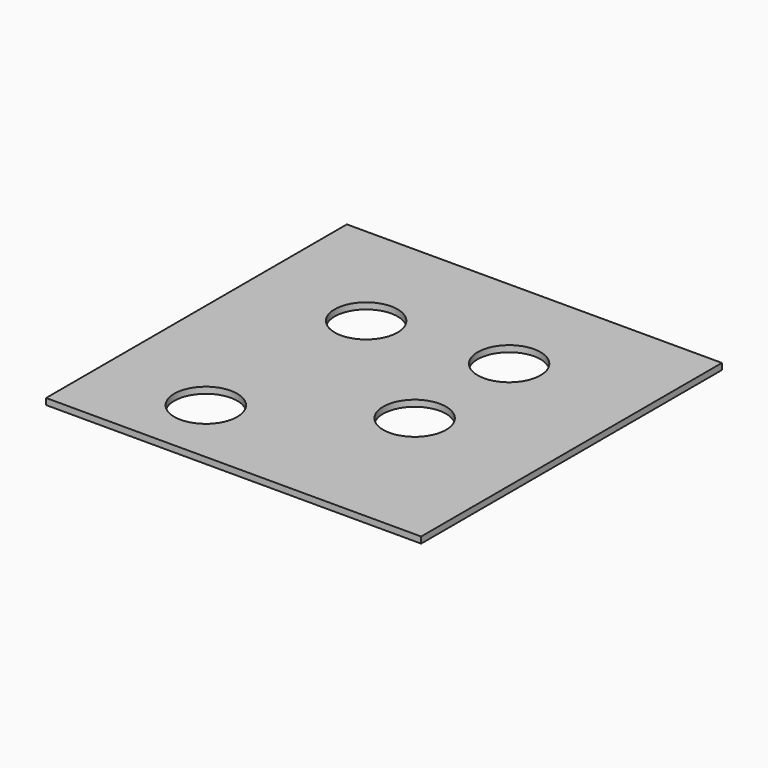
from build123d import *

# Parameters (mm, degrees)
F0_W     = 151.5156403184
F0_H     = 151.8851816654
F1_DEPTH = 2.54
F3_D     = 25.4


with BuildPart() as f1:
    # F0 (on Top) → F1 (new body)
    with BuildSketch(Plane.XY):
        with Locations((0.3695450723, -0.5543380976)):
            Rectangle(F0_W, F0_H)
    extrude(amount=F1_DEPTH)

    # F3 (through all)
    with Locations(Plane(origin=(0, 0, 0), x_dir=(1, 0, 0), z_dir=(0, 0, -1))):
        with Locations((-29.4354520738, -27.6866741478), (24.0536257625, -33.0083705485), (24.0536257625, 14.6941076964), (-32.9327583313, 48.9192418754)):
            Hole(F3_D / 2)


solid = f1.part
